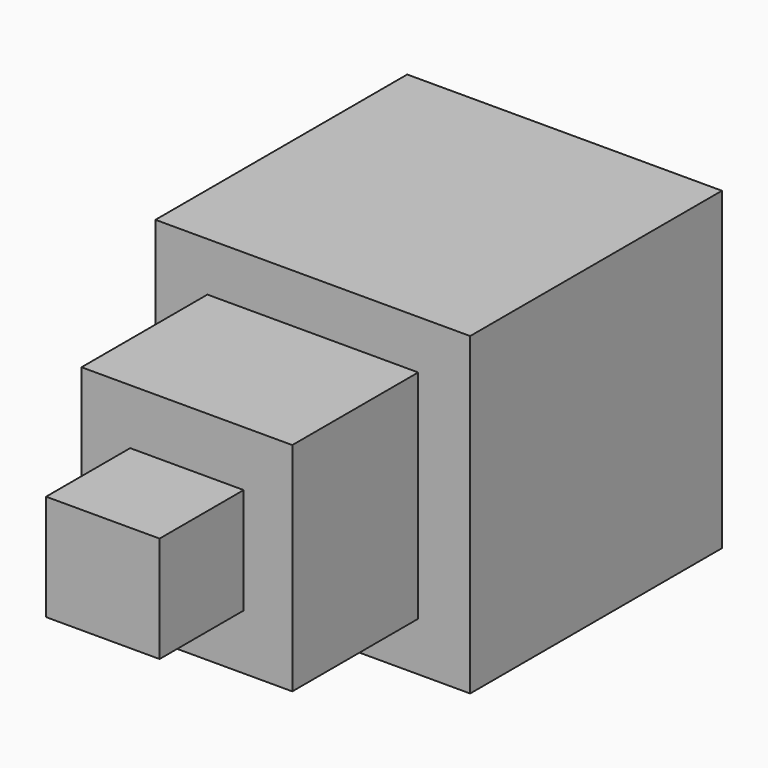
from build123d import *

# Parameters (mm, degrees)
F0_W     = 50
F0_H     = 50
F1_DEPTH = 50
F2_W     = 33.4872
F2_H     = 34.45318
F3_DEPTH = 25
F4_W     = 18.03157
F4_H     = 16.849448
F5_DEPTH = 16.7


with BuildPart() as f1:
    # F0 (on Front) → F1 (new body)
    with BuildSketch(Plane.XZ):
        Rectangle(F0_W, F0_H)
    extrude(amount=F1_DEPTH)

    # F2 (on face) → F3 (join)
    with BuildSketch(Plane.XZ.offset(50)):
        Rectangle(F2_W, F2_H)
    extrude(amount=F3_DEPTH)

    # F4 (on face) → F5 (join, symmetric)
    with BuildSketch(Plane.XZ.offset(75)):
        Rectangle(F4_W, F4_H)
        Rectangle(F4_W, F4_H)
    extrude(amount=F5_DEPTH, both=True)


solid = f1.part
